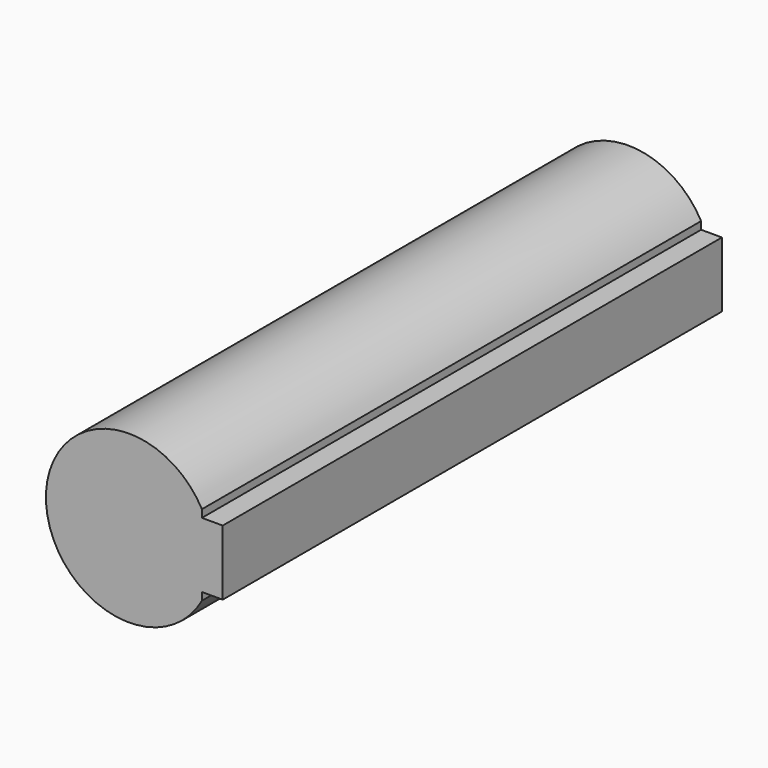
from build123d import *

# Parameters (mm, degrees)
F1_DEPTH = 75


with BuildPart() as f1:
    # F0 (on Front) → F1 (new body, symmetric)
    with BuildSketch(Plane.XZ):
        with BuildLine():
            Line((17.5, 7.844628), (17.5, 9.682458))
            ThreePointArc((17.5, 9.682458), (-20, 0), (17.5, -9.682458))
            Line((17.5, -9.682458), (17.5, -7.844628))
            Line((17.5, -7.844628), (22.5, -7.844628))
            Line((22.5, -7.844628), (22.5, 7.844628))
            Line((22.5, 7.844628), (17.5, 7.844628))
        make_face()
    extrude(amount=F1_DEPTH, both=True)


solid = f1.part
